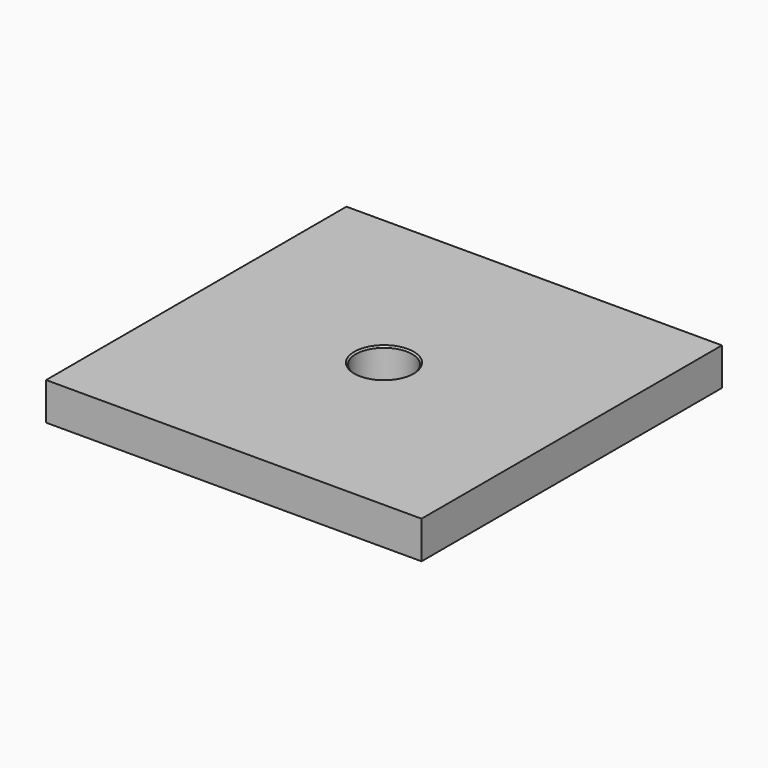
from build123d import *

# Parameters (mm, degrees)
F0_W     = 120
F0_H     = 120
F0_R     = 9
F1_DEPTH = 12
F2_SIZE  = 0.5


with BuildPart() as f1:
    # F0 (on Top) → F1 (new body)
    with BuildSketch(Plane.XY):
        Rectangle(F0_W, F0_H)
        Circle(F0_R, mode=Mode.SUBTRACT)
    extrude(amount=F1_DEPTH)

    # F2
    f2_edges = [f1.edges().sort_by_distance(p)[0] for p in [
        (9, 0, 6),
        (-9, 0, 0),
        (-9, 0, 12),
    ]]
    chamfer(f2_edges, length=F2_SIZE)


solid = f1.part
